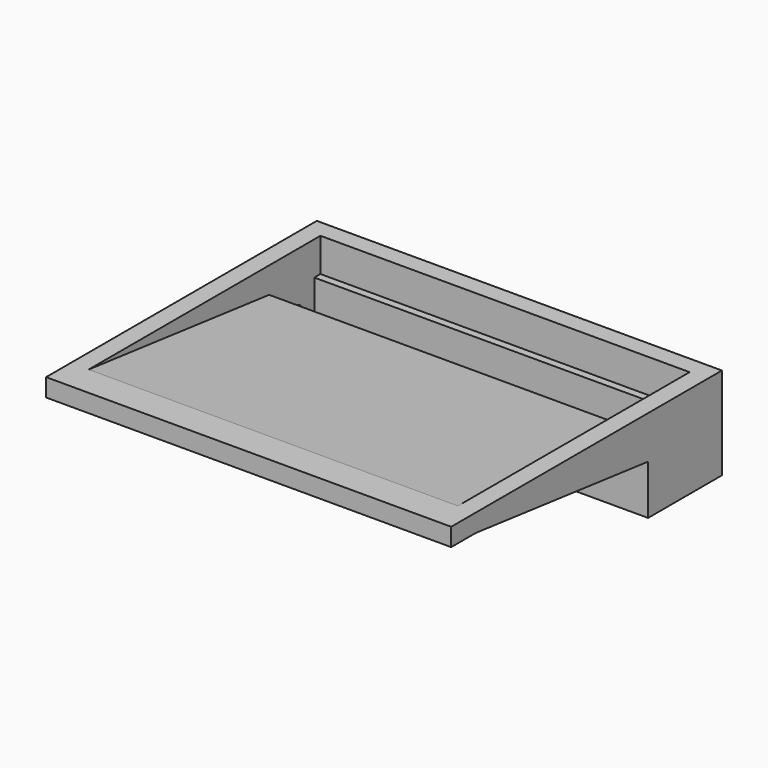
from build123d import *

# Parameters (mm, degrees)
F0_W          = 2006.6
F0_H          = 1524
F1_DEPTH      = 254
F4_DEPTH      = 914.4
F5_DEPTH      = 88.901
F6_DEPTH      = 88.901
F3_W          = 457.2
F3_H          = 457.2
F7_DEPTH      = 2006.6
F8_DEPTH      = 914.4
F8_DEPTH_BACK = 914.4
F9_W          = 1828.8
F9_H          = 317.5
F10_DEPTH     = 355.6
F11_W         = 1828.8
F11_H         = 38.1
F12_DEPTH     = 188.9265486726
F13_R         = 57.15
F14_DEPTH     = 88.901
F15_DEPTH     = 152.4


with BuildPart() as f1:
    # F0 (on Top) → F1 (new body)
    with BuildSketch(Plane.XY):
        Rectangle(F0_W, F0_H)
    extrude(amount=F1_DEPTH)

    # F2 (on Right) → F4 (cut, symmetric)
    with BuildSketch(Plane.YZ):
        Polygon((673.1, 254), (-762, 254), (673.1, 88.9), align=None)
        Polygon((673.1, 0), (-762, 165.1), (-762, 0), align=None)
    extrude(amount=F4_DEPTH, both=True, mode=Mode.SUBTRACT)

    # F5 (cut, through all): a face of the model
    f5_faces = [f1.faces().sort_by_distance(p)[0] for p in [
        (-914.4, -283.6333333333, 55.0333333333),
    ]]
    extrude(f5_faces, amount=-F5_DEPTH, mode=Mode.SUBTRACT)

    # F6 (cut, through all): a face of the model
    f6_faces = [f1.faces().sort_by_distance(p)[0] for p in [
        (914.4, -283.6333333333, 55.0333333333),
    ]]
    extrude(f6_faces, amount=-F6_DEPTH, mode=Mode.SUBTRACT)

    # F3 (on face) → F7 (join, through all)
    with BuildSketch(Plane(origin=(-1003.3, 0, 0), x_dir=(0, -1, 0), z_dir=(-1, 0, 0))):
        with Locations((-533.4, 25.4)):
            Rectangle(F3_W, F3_H)
    extrude(amount=-F7_DEPTH)

    # F2 (on Right) → F8 (cut, two sides)
    with BuildSketch(Plane.YZ) as f8_sk:
        Polygon((673.1, 254), (-762, 254), (673.1, 88.9), align=None)
    extrude(amount=-F8_DEPTH, mode=Mode.SUBTRACT)
    extrude(f8_sk.sketch, amount=F8_DEPTH_BACK, mode=Mode.SUBTRACT)

    # F9 (on face) → F10 (cut, through all)
    with BuildSketch(Plane.XY.offset(254)):
        with Locations((0, 514.35)):
            Rectangle(F9_W, F9_H)
    extrude(amount=-F10_DEPTH, mode=Mode.SUBTRACT)

    # F11 (on face) → F12 (join, through all)
    with BuildSketch(Plane.XY.offset(-101.6)):
        with Locations((0, 654.05)):
            Rectangle(F11_W, F11_H)
        with Locations((0, 374.65)):
            Rectangle(F11_W, F11_H)
    extrude(amount=F12_DEPTH)

    # F13 (on face) → F14 (cut, through all)
    with BuildSketch(Plane.YZ.offset(-914.4)):
        with Locations((514.35, -44.45)):
            Circle(F13_R)
    extrude(amount=-F14_DEPTH, mode=Mode.SUBTRACT)

    # F15 (add): a face of the model
    f15_faces = [f1.faces().sort_by_distance(p)[0] for p in [
        (0, -762, 209.55),
    ]]
    extrude(f15_faces, amount=F15_DEPTH)


solid = f1.part
